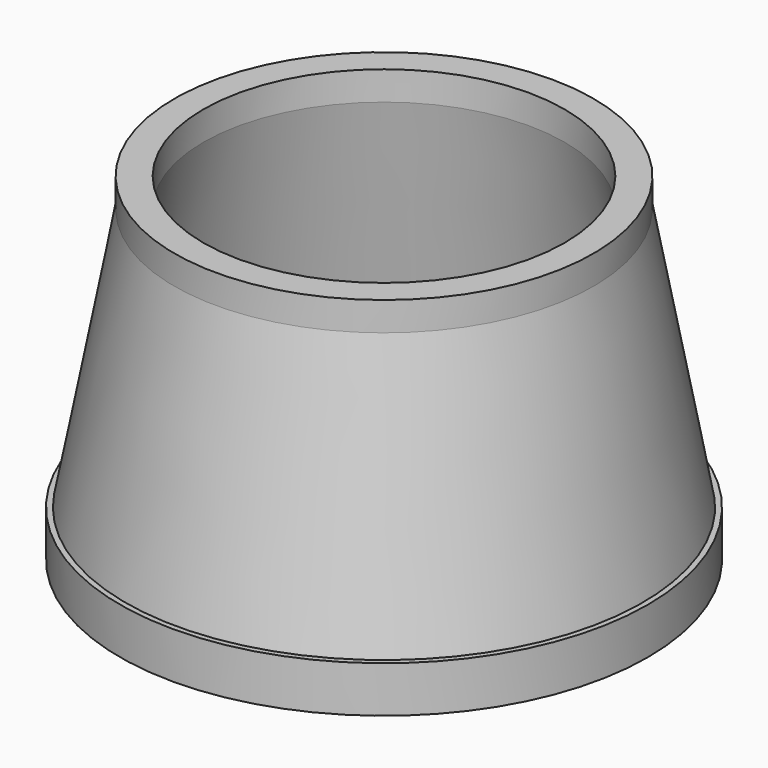
from build123d import *

# Parameters (mm, degrees)
F0_R     = 45.631
F0_R_2   = 40.631
F1_DEPTH = 8
F4_SIZE  = 1


with BuildPart() as f1:
    # F0 (on Top) → F1 (new body)
    with BuildSketch(Plane.XY):
        Circle(F0_R)
        Circle(F0_R_2, mode=Mode.SUBTRACT)
    extrude(amount=F1_DEPTH)

    # F2 (on Right) → F3 (revolve)
    with BuildSketch(Plane.YZ):
        Polygon((40.631, 3), (45.631, 3), (36.235, 53.383008), (36.235, 58.383008), (31.235, 58.383008), (31.235, 53.383008), align=None)
    revolve(axis=Axis((0, 0, 34.883008), (0, 0, 1)))

    # F4
    f4_edges = [f1.edges().sort_by_distance(p)[0] for p in [
        (-40.631, 0, 0),
    ]]
    chamfer(f4_edges, length=F4_SIZE)


solid = f1.part
